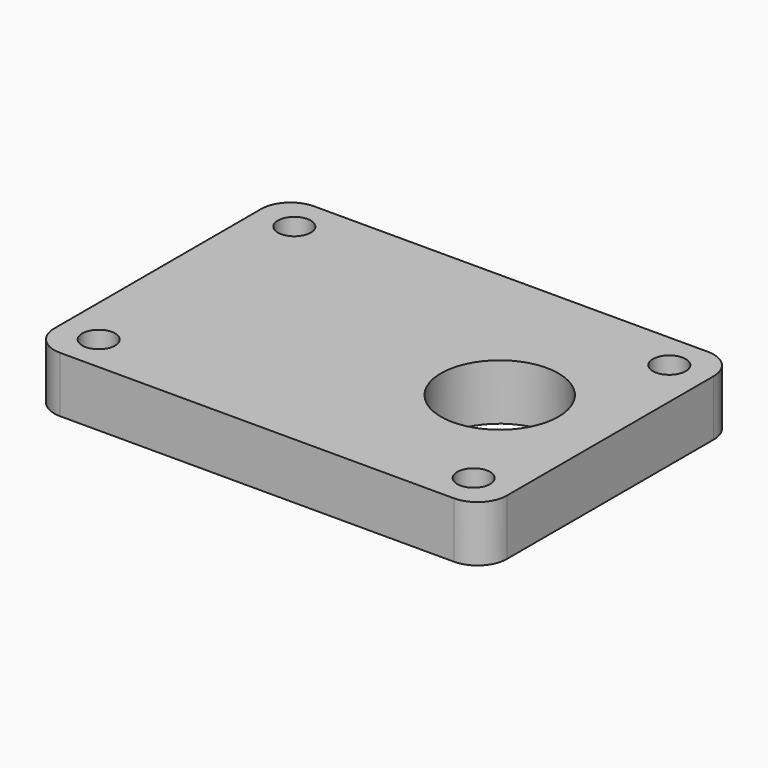
from build123d import *

# Parameters (mm, degrees)
F0_R     = 2.8
F0_R_2   = 10
F1_DEPTH = 9.5


with BuildPart() as f1:
    # F0 (on Top) → F1 (new body)
    with BuildSketch(Plane.XY):
        with BuildLine():
            Line((30.469484, 40.768105), (-36.530516, 40.768105))
            ThreePointArc((-36.530516, 40.768105), (-40.06605, 39.303639), (-41.530516, 35.768105))
            Line((-41.530516, 35.768105), (-41.530516, -8.231895))
            ThreePointArc((-41.530516, -8.231895), (-40.06605, -11.767429), (-36.530516, -13.231895))
            Line((-36.530516, -13.231895), (30.469484, -13.231895))
            ThreePointArc((30.469484, -13.231895), (34.005017, -11.767429), (35.469484, -8.231895))
            Line((35.469484, -8.231895), (35.469484, 35.768105))
            ThreePointArc((35.469484, 35.768105), (34.005017, 39.303639), (30.469484, 40.768105))
        make_face()
        with Locations((-34.930516, -7.031895)):
            Circle(F0_R, mode=Mode.SUBTRACT)
        with Locations((28.869484, -7.031895)):
            Circle(F0_R, mode=Mode.SUBTRACT)
        with Locations((-34.930516, 34.568105)):
            Circle(F0_R, mode=Mode.SUBTRACT)
        with Locations((16.653322, 13.768105)):
            Circle(F0_R_2, mode=Mode.SUBTRACT)
        with Locations((28.869484, 34.568105)):
            Circle(F0_R, mode=Mode.SUBTRACT)
    extrude(amount=F1_DEPTH)


solid = f1.part
